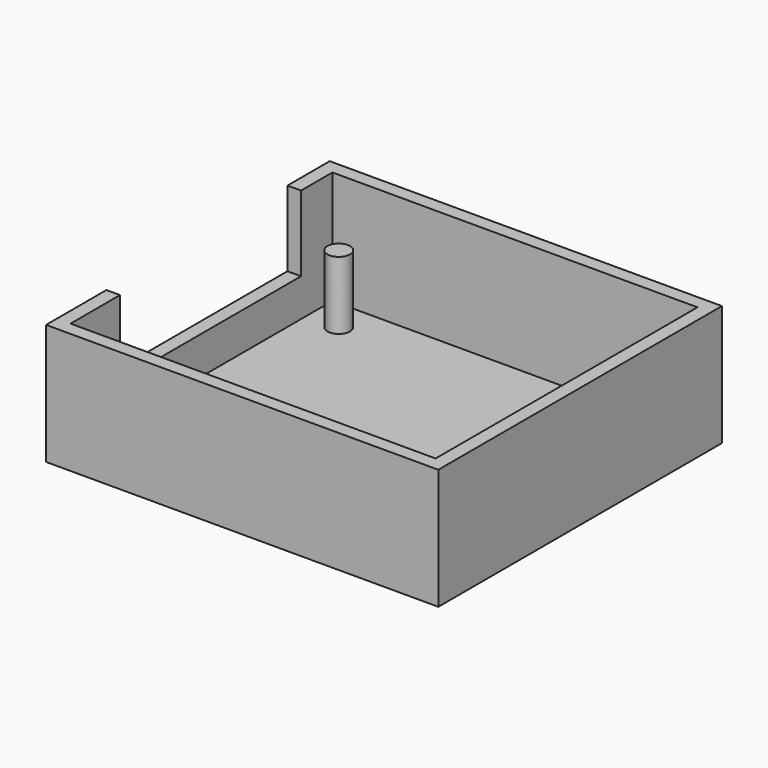
from build123d import *

# Parameters (mm, degrees)
SKETCH016_W     = 52
SKETCH016_H     = 47
SKETCH016_W_2   = 48
SKETCH016_H_2   = 43
PAD006_DEPTH    = 16
SKETCH018_W     = 48
SKETCH018_H     = 43
SKETCH018_R     = 0.5
PAD007_DEPTH    = 1
SKETCH019_R     = 1.5
PAD008_DEPTH    = 10
SKETCH017_W     = 48.4
SKETCH017_H     = 43.4
SKETCH017_W_2   = 45.439167
SKETCH017_H_2   = 40.049149
POCKET005_DEPTH = 15.001
SKETCH020_W     = 2
SKETCH020_H     = 30
POCKET006_DEPTH = 10.001


with BuildPart() as part:
    # Sketch016 → Pad006 (new body)
    with BuildSketch(Plane.XY):
        with Locations((26, 23.5)):
            Rectangle(SKETCH016_W, SKETCH016_H)
        with Locations((26, 23.5)):
            Rectangle(SKETCH016_W_2, SKETCH016_H_2, mode=Mode.SUBTRACT)
    extrude(amount=PAD006_DEPTH)

    # Sketch018 → Pad007 (join)
    with BuildSketch(Plane.XY):
        with Locations((26, 23.5)):
            Rectangle(SKETCH018_W, SKETCH018_H)
        with Locations((6, 41)):
            Circle(SKETCH018_R, mode=Mode.SUBTRACT)
        with Locations((6, 6)):
            Circle(SKETCH018_R, mode=Mode.SUBTRACT)
        with Locations((46, 6)):
            Circle(SKETCH018_R, mode=Mode.SUBTRACT)
        with Locations((46, 41)):
            Circle(SKETCH018_R, mode=Mode.SUBTRACT)
    extrude(amount=PAD007_DEPTH)

    # Sketch019 → Pad008 (join)
    with BuildSketch(Plane.XY):
        with Locations((6, 41)):
            Circle(SKETCH019_R)
        with Locations((6, 6)):
            Circle(SKETCH019_R)
        with Locations((46, 6)):
            Circle(SKETCH019_R)
        with Locations((46, 41)):
            Circle(SKETCH019_R)
    extrude(amount=PAD008_DEPTH)

    # Sketch017 → Pocket005 (cut, through all)
    with BuildSketch(Plane.XY.offset(1)):
        with Locations((26, 23.5)):
            Rectangle(SKETCH017_W, SKETCH017_H)
        with Locations((26.011635, 23.557234)):
            Rectangle(SKETCH017_W_2, SKETCH017_H_2, mode=Mode.SUBTRACT)
    extrude(amount=POCKET005_DEPTH, mode=Mode.SUBTRACT)

    # Sketch020 → Pocket006 (cut, through all)
    with BuildSketch(Plane.XY.offset(6)):
        with Locations((1, 25)):
            Rectangle(SKETCH020_W, SKETCH020_H)
    extrude(amount=POCKET006_DEPTH, mode=Mode.SUBTRACT)


with BuildPart() as part_1:
    # Body003 placement: moved
    add(part.part.moved(Location((0, -47, 0))))


solid = part_1.part
